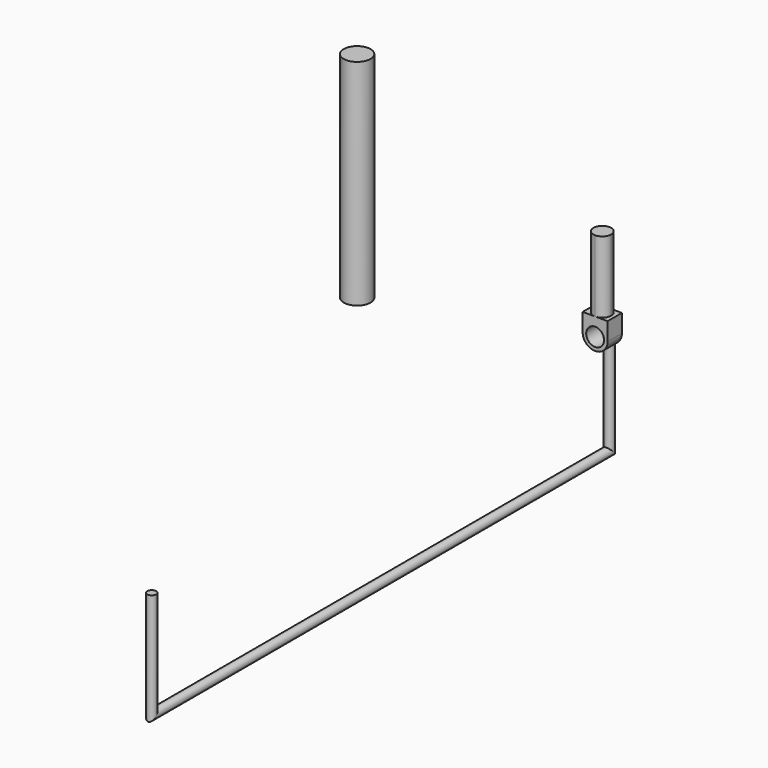
from build123d import *

# Parameters (mm, degrees)
F0_R     = 3.175
F1_DEPTH = 6.35
F3_DEPTH = 25.4
F5_R     = 1.5875
F7_R     = 4.7625
F8_DEPTH = 76.2


with BuildPart() as f1:
    # F0 (on Front) → F1 (new body)
    with BuildSketch(Plane.XZ):
        with BuildLine():
            ThreePointArc((-4.445, 0), (0, 4.445), (4.445, 0))
            Line((4.445, 0), (4.445, 6.35))
            Line((4.445, 6.35), (-4.445, 6.35))
            Line((-4.445, 6.35), (-4.445, 0))
        make_face()
        with BuildLine():
            ThreePointArc((-4.445, 0), (0, -4.445), (4.445, 0))
            ThreePointArc((4.445, 0), (0, 4.445), (-4.445, 0))
        make_face()
        Circle(F0_R, mode=Mode.SUBTRACT)
    extrude(amount=F1_DEPTH)


with BuildPart() as f3:
    # F2 (on face) → F3 (new body)
    with BuildSketch(Plane.XY.offset(6.35)):
        with BuildLine():
            ThreePointArc((0, -6.35), (2.2450640303, -5.4200640303), (3.175, -3.175))
            ThreePointArc((3.175, -3.175), (2.2450640303, -0.9299359697), (0, 0))
            ThreePointArc((0, 0), (-3.175, -3.175), (0, -6.35))
        make_face()
    extrude(amount=F3_DEPTH)


with BuildPart() as f6:
    # F6: sweep along a path in F4
    with BuildLine(Plane.YZ) as f6_path:
        Line((0, 0), (0, -38.1))
        Line((0, -38.1), (-203.2, -38.1))
        Line((-203.2, -38.1), (-203.2, 0))
    # F5 (on Top) → F6 (sweep)
    with BuildSketch(Plane.XY):
        Circle(F5_R)
    sweep(path=f6_path.line, transition=Transition.RIGHT)


with BuildPart() as f8:
    # F7 (on Top) → F8 (new body)
    with BuildSketch(Plane.XY):
        with Locations((-66.2229880691, -29.2353220284)):
            Circle(F7_R)
    extrude(amount=F8_DEPTH)


solid = Compound([f1.part, f3.part, f6.part, f8.part])
